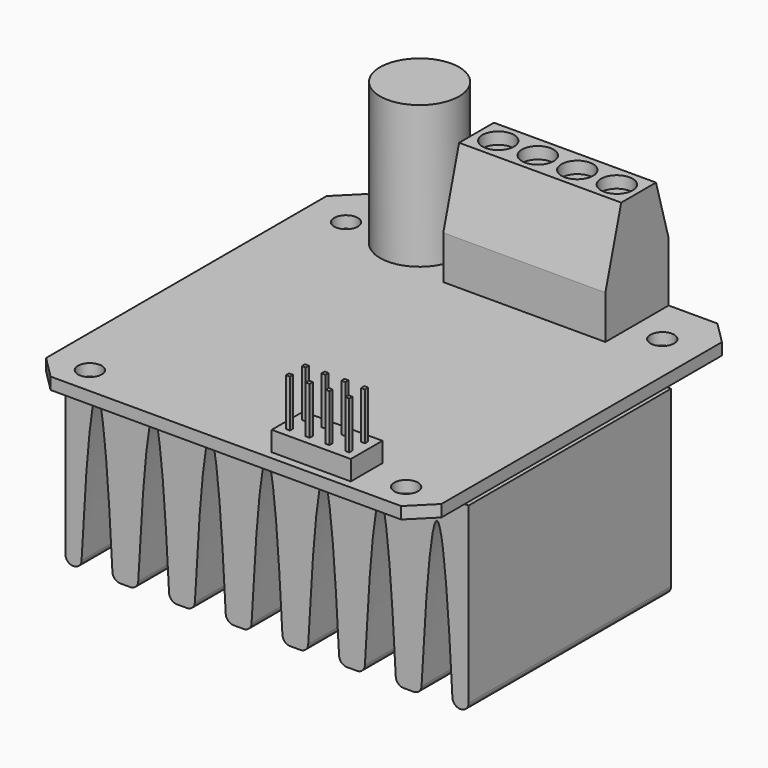
from build123d import *

# Parameters (mm, degrees)
SKETCH_R                     = 1.5
PAD_DEPTH                    = 1.5
SKETCH001_R                  = 5
PAD001_DEPTH                 = 18
SKETCH002_W                  = 20.5
SKETCH002_H                  = 10
PAD002_DEPTH                 = 14.5
CHAMFER_SIZE2                = 2.5
CHAMFER_SIZE                 = 9
CHAMFER001_SIZE2             = 7
CHAMFER001_SIZE              = 2
SKETCH003_R                  = 2
POCKET_DEPTH                 = 1.5
SKETCH004_W                  = 3
SKETCH004_H                  = 3
POCKET001_DEPTH              = 5
CHAMFER002_SIZE              = 1
SKETCH005_W                  = 2.5
SKETCH005_H                  = 2.5
PAD003_DEPTH                 = 2.5
SKETCH006_W                  = 0.5
SKETCH006_H                  = 0.5
PAD004_DEPTH                 = 6
SKETCH006_LINEARPATTERN_2_W  = 0.5
SKETCH006_LINEARPATTERN_2_H  = 0.5
PAD004_LINEARPATTERN_2_DEPTH = 6
SKETCH005_LINEARPATTERN_2_W  = 2.5
SKETCH005_LINEARPATTERN_2_H  = 2.5
PAD003_LINEARPATTERN_2_DEPTH = 2.5
SKETCH006_LINEARPATTERN_3_W  = 0.5
SKETCH006_LINEARPATTERN_3_H  = 0.5
PAD004_LINEARPATTERN_3_DEPTH = 6
SKETCH005_LINEARPATTERN_3_W  = 2.5
SKETCH005_LINEARPATTERN_3_H  = 2.5
PAD003_LINEARPATTERN_3_DEPTH = 2.5
SKETCH006_LINEARPATTERN_4_W  = 0.5
SKETCH006_LINEARPATTERN_4_H  = 0.5
PAD004_LINEARPATTERN_4_DEPTH = 6
SKETCH005_LINEARPATTERN_4_W  = 2.5
SKETCH005_LINEARPATTERN_4_H  = 2.5
PAD003_LINEARPATTERN_4_DEPTH = 2.5
LINEARPATTERN001_COUNT       = 2
LINEARPATTERN001_PITCH       = 2.5
SKETCH007_W                  = 51
SKETCH007_H                  = 32
PAD005_DEPTH                 = 23
POCKET002_DEPTH              = 43.501
LINEARPATTERN002_COUNT       = 7
LINEARPATTERN002_PITCH       = 7.166667
FILLET_R                     = 1


with BuildPart() as part:
    # Sketch → Pad (new body)
    with BuildSketch(Plane.XY):
        Polygon((0, 47.171573), (0, 2.828427), (2.828427, 0), (47.171573, 0), (50, 2.828427), (50, 47.171573), (47.171573, 50), (2.828427, 50), align=None)
        with Locations((5, 3.5)):
            Circle(SKETCH_R, mode=Mode.SUBTRACT)
        with Locations((5, 44)):
            Circle(SKETCH_R, mode=Mode.SUBTRACT)
        with Locations((45, 44)):
            Circle(SKETCH_R, mode=Mode.SUBTRACT)
        with Locations((45, 3.5)):
            Circle(SKETCH_R, mode=Mode.SUBTRACT)
    extrude(amount=-PAD_DEPTH)

    # Sketch001 (on Face13 of Pad) → Pad001 (join)
    with BuildSketch(Plane.XY):
        with Locations((13.5, 45)):
            Circle(SKETCH001_R)
    extrude(amount=PAD001_DEPTH)

    # Sketch002 (on Face4 of Pad001) → Pad002 (join)
    with BuildSketch(Plane.XY):
        with Locations((30.75, 45)):
            Rectangle(SKETCH002_W, SKETCH002_H)
    extrude(amount=PAD002_DEPTH)

    # Chamfer
    chamfer_edges = [part.edges().sort_by_distance(p)[0] for p in [
        (30.75, 40, 14.5),
    ]]
    chamfer_side = part.faces().sort_by_distance((30.75, 40, 7.25))[0]
    chamfer(chamfer_edges, length=CHAMFER_SIZE, length2=CHAMFER_SIZE2, reference=chamfer_side)

    # Chamfer001
    chamfer001_edges = [part.edges().sort_by_distance(p)[0] for p in [
        (30.75, 50, 14.5),
    ]]
    chamfer001_side = part.faces().sort_by_distance((30.75, 46.25, 14.5))[0]
    chamfer(chamfer001_edges, length=CHAMFER001_SIZE, length2=CHAMFER001_SIZE2, reference=chamfer001_side)

    # Sketch003 (on Face2 of Chamfer001) → Pocket (cut)
    with BuildSketch(Plane.XY.offset(14.5)):
        with Locations((23.25, 45.25)):
            Circle(SKETCH003_R)
        with Locations((28.25, 45.25)):
            Circle(SKETCH003_R)
        with Locations((33.25, 45.25)):
            Circle(SKETCH003_R)
        with Locations((38.25, 45.25)):
            Circle(SKETCH003_R)
    extrude(amount=-POCKET_DEPTH, mode=Mode.SUBTRACT)

    # Sketch004 (on Face5 of Pocket) → Pocket001 (cut)
    with BuildSketch(Plane(origin=(0, 50, 0), x_dir=(-1, 0, 0), z_dir=(0, 1, 0))):
        with Locations((-38.25, 4)):
            Rectangle(SKETCH004_W, SKETCH004_H)
        with Locations((-33.25, 4)):
            Rectangle(SKETCH004_W, SKETCH004_H)
        with Locations((-28.25, 4)):
            Rectangle(SKETCH004_W, SKETCH004_H)
        with Locations((-23.25, 4)):
            Rectangle(SKETCH004_W, SKETCH004_H)
    extrude(amount=-POCKET001_DEPTH, mode=Mode.SUBTRACT)

    # Chamfer002
    chamfer002_edges = [part.edges().sort_by_distance(p)[0] for p in [
        (38.25, 50, 5.5),
        (33.25, 50, 5.5),
        (28.25, 50, 5.5),
        (23.25, 50, 5.5),
    ]]
    chamfer(chamfer002_edges, length=CHAMFER002_SIZE)

    # Sketch005 (on Face8 of Chamfer002) → Pad003 (join)
    with BuildSketch(Plane.XY):
        with Locations((38.75, 2.25)):
            Rectangle(SKETCH005_W, SKETCH005_H)
    pad003 = extrude(amount=PAD003_DEPTH)

    # Sketch006 (on Face54 of Pad003) → Pad004 (join)
    with BuildSketch(Plane.XY.offset(2.5)):
        with Locations((38.75, 2.25)):
            Rectangle(SKETCH006_W, SKETCH006_H)
    pad004 = extrude(amount=PAD004_DEPTH)

    # Sketch006 LinearPattern 2 → Pad004 LinearPattern 2 (add)
    with BuildSketch(Plane(origin=(-2.5, 0, 2.5), x_dir=(1, 0, 0), z_dir=(0, 0, 1))):
        with Locations((38.75, 2.25)):
            Rectangle(SKETCH006_LINEARPATTERN_2_W, SKETCH006_LINEARPATTERN_2_H)
    pad004_linearpattern_2 = extrude(amount=PAD004_LINEARPATTERN_2_DEPTH)

    # Sketch005 LinearPattern 2 → Pad003 LinearPattern 2 (add)
    with BuildSketch(Plane(origin=(-2.5, 0, 0), x_dir=(1, 0, 0), z_dir=(0, 0, 1))):
        with Locations((38.75, 2.25)):
            Rectangle(SKETCH005_LINEARPATTERN_2_W, SKETCH005_LINEARPATTERN_2_H)
    pad003_linearpattern_2 = extrude(amount=PAD003_LINEARPATTERN_2_DEPTH)

    # Sketch006 LinearPattern 3 → Pad004 LinearPattern 3 (add)
    with BuildSketch(Plane(origin=(-5, 0, 2.5), x_dir=(1, 0, 0), z_dir=(0, 0, 1))):
        with Locations((38.75, 2.25)):
            Rectangle(SKETCH006_LINEARPATTERN_3_W, SKETCH006_LINEARPATTERN_3_H)
    pad004_linearpattern_3 = extrude(amount=PAD004_LINEARPATTERN_3_DEPTH)

    # Sketch005 LinearPattern 3 → Pad003 LinearPattern 3 (add)
    with BuildSketch(Plane(origin=(-5, 0, 0), x_dir=(1, 0, 0), z_dir=(0, 0, 1))):
        with Locations((38.75, 2.25)):
            Rectangle(SKETCH005_LINEARPATTERN_3_W, SKETCH005_LINEARPATTERN_3_H)
    pad003_linearpattern_3 = extrude(amount=PAD003_LINEARPATTERN_3_DEPTH)

    # Sketch006 LinearPattern 4 → Pad004 LinearPattern 4 (add)
    with BuildSketch(Plane(origin=(-7.5, 0, 2.5), x_dir=(1, 0, 0), z_dir=(0, 0, 1))):
        with Locations((38.75, 2.25)):
            Rectangle(SKETCH006_LINEARPATTERN_4_W, SKETCH006_LINEARPATTERN_4_H)
    pad004_linearpattern_4 = extrude(amount=PAD004_LINEARPATTERN_4_DEPTH)

    # Sketch005 LinearPattern 4 → Pad003 LinearPattern 4 (add)
    with BuildSketch(Plane(origin=(-7.5, 0, 0), x_dir=(1, 0, 0), z_dir=(0, 0, 1))):
        with Locations((38.75, 2.25)):
            Rectangle(SKETCH005_LINEARPATTERN_4_W, SKETCH005_LINEARPATTERN_4_H)
    pad003_linearpattern_4 = extrude(amount=PAD003_LINEARPATTERN_4_DEPTH)

    # LinearPattern001: Pad004, Pad003, Pad004 LinearPattern 2, Pad003 LinearPattern 2, Pad004 LinearPattern 3, Pad003 LinearPattern 3, Pad004 LinearPattern 4, Pad003 LinearPattern 4 ×2
    with Locations(*[(0, i * LINEARPATTERN001_PITCH, 0) for i in range(1, LINEARPATTERN001_COUNT)]):
        add(pad004)
        add(pad003)
        add(pad004_linearpattern_2)
        add(pad003_linearpattern_2)
        add(pad004_linearpattern_3)
        add(pad003_linearpattern_3)
        add(pad004_linearpattern_4)
        add(pad003_linearpattern_4)

    # Sketch007 (on Face54 of MultiTransform) → Pad005 (join)
    with BuildSketch(Plane(origin=(0, 0, -1.5), x_dir=(1, 0, 0), z_dir=(0, 0, -1))):
        with Locations((25, -22.5)):
            Rectangle(SKETCH007_W, SKETCH007_H)
    extrude(amount=PAD005_DEPTH)

    # Sketch008 (on Face88 of Pad005) → Pocket002 (cut, through all)
    with BuildSketch(Plane.XZ.offset(-6.5)):
        with BuildLine():
            add(Edge.make_bspline(
                [(1.5, -24.5), (3.5, 15.5), (5.5, -24.5)],
                knots=[0, 0, 0, 1, 1, 1], degree=2))
            Line((5.5, -24.5), (1.5, -24.5))
        make_face()
    pocket002 = extrude(amount=-POCKET002_DEPTH, mode=Mode.SUBTRACT)

    # LinearPattern002: Pocket002 ×7
    with Locations(*[(i * LINEARPATTERN002_PITCH, 0, 0) for i in range(1, LINEARPATTERN002_COUNT)]):
        add(pocket002, mode=Mode.SUBTRACT)

    # Fillet
    fillet_edges = [part.edges().sort_by_distance(p)[0] for p in [
        (-0.5, 22.5, -24.5),
        (1.5, 22.5, -24.5),
        (5.5, 22.5, -24.5),
        (8.666667, 22.5, -24.5),
        (12.666667, 22.5, -24.5),
        (15.833333, 22.5, -24.5),
        (19.833333, 22.5, -24.5),
        (23, 22.5, -24.5),
        (27, 22.5, -24.5),
        (30.166667, 22.5, -24.5),
        (34.166667, 22.5, -24.5),
        (37.333333, 22.5, -24.5),
        (41.333333, 22.5, -24.5),
        (44.5, 22.5, -24.5),
        (48.5, 22.5, -24.5),
        (50.5, 22.5, -24.5),
    ]]
    fillet(fillet_edges, radius=FILLET_R)


solid = part.part
